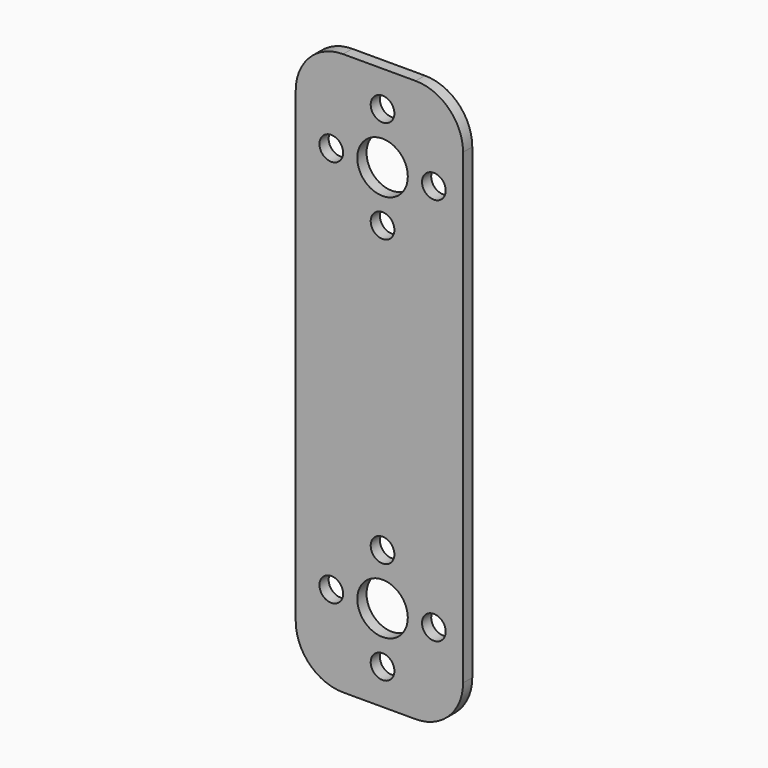
from build123d import *

# Parameters (mm, degrees)
F0_R     = 1.905
F0_R_2   = 4.064
F1_DEPTH = 1.8542


with BuildPart() as f1:
    # F0 (on Front) → F1 (new body)
    with BuildSketch(Plane.XZ):
        with BuildLine():
            ThreePointArc((0, 33.470551), (-2.231846, 38.858705), (-7.62, 41.090551))
            Line((-7.62, 41.090551), (-19.304, 41.090551))
            ThreePointArc((-19.304, 41.090551), (-24.692154, 38.858705), (-26.924, 33.470551))
            Line((-26.924, 33.470551), (-26.924, -41.713449))
            ThreePointArc((-26.924, -41.713449), (-24.692154, -47.101602), (-19.304, -49.333449))
            Line((-19.304, -49.333449), (-7.62, -49.333449))
            ThreePointArc((-7.62, -49.333449), (-2.231846, -47.101602), (0, -41.713449))
            Line((0, -41.713449), (0, 33.470551))
        make_face()
        with Locations((-21.209, -35.363449)):
            Circle(F0_R, mode=Mode.SUBTRACT)
        with Locations((-12.954, -43.618449)):
            Circle(F0_R, mode=Mode.SUBTRACT)
        with Locations((-12.954, -35.363449)):
            Circle(F0_R_2, mode=Mode.SUBTRACT)
        with Locations((-12.954, -27.108449)):
            Circle(F0_R, mode=Mode.SUBTRACT)
        with Locations((-4.699, -35.363449)):
            Circle(F0_R, mode=Mode.SUBTRACT)
        with Locations((-21.209, 27.120551)):
            Circle(F0_R, mode=Mode.SUBTRACT)
        with Locations((-12.954, 18.865551)):
            Circle(F0_R, mode=Mode.SUBTRACT)
        with Locations((-12.954, 27.120551)):
            Circle(F0_R_2, mode=Mode.SUBTRACT)
        with Locations((-12.954, 35.375551)):
            Circle(F0_R, mode=Mode.SUBTRACT)
        with Locations((-4.699, 27.120551)):
            Circle(F0_R, mode=Mode.SUBTRACT)
    extrude(amount=F1_DEPTH)


solid = f1.part
